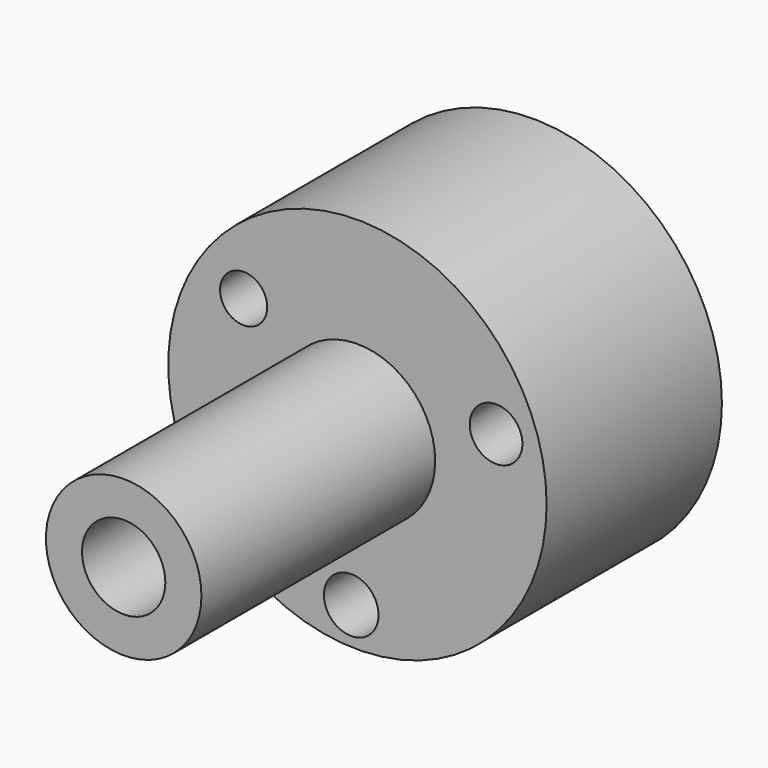
from build123d import *

# Parameters (mm, degrees)
F1_R     = 10.644446
F1_R_2   = 5.700765
F2_DEPTH = 70
F0_R     = 25.902093
F0_R_2   = 3.739316
F0_R_3   = 3.229813
F0_R_4   = 3.605484
F3_DEPTH = 30


with BuildPart() as f2:
    # F1 (on Front) → F2 (new body)
    with BuildSketch(Plane.XZ):
        with Locations((-39.79991, 21.103868)):
            Circle(F1_R)
        with Locations((-39.79991, 21.103868)):
            Circle(F1_R_2, mode=Mode.SUBTRACT)
    extrude(amount=F2_DEPTH)

    # F0 (on Front) → F3 (join)
    with BuildSketch(Plane.XZ):
        with Locations((-39.79991, 20.820595)):
            Circle(F0_R)
        with Locations((-40.649731, 0)):
            Circle(F0_R_2, mode=Mode.SUBTRACT)
        with Locations((-55.379946, 32.151528)):
            Circle(F0_R_3, mode=Mode.SUBTRACT)
        with Locations((-20.820595, 27.052607)):
            Circle(F0_R_4, mode=Mode.SUBTRACT)
    extrude(amount=F3_DEPTH)


solid = f2.part
